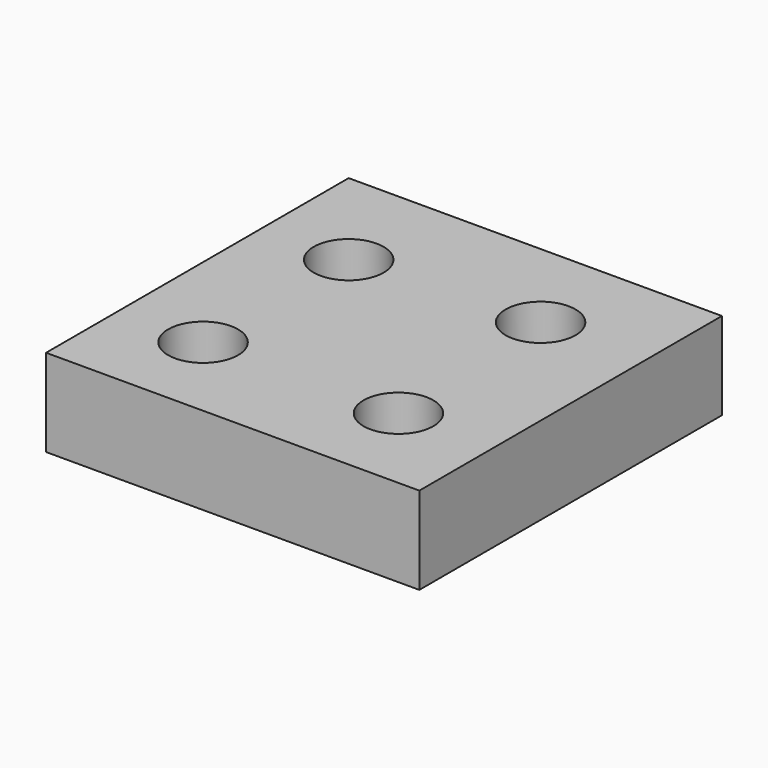
from build123d import *

# Parameters (mm, degrees)
F0_W     = 108.445853
F0_H     = 109.893702
F1_DEPTH = 12.7
F3_D     = 20.32


with BuildPart() as f1:
    # F0 (on Top) → F1 (new body, symmetric)
    with BuildSketch(Plane.XY):
        with Locations((0.514899, 4.793294)):
            Rectangle(F0_W, F0_H)
    extrude(amount=F1_DEPTH, both=True)

    # F3 (through all)
    with Locations(Plane.XY.offset(12.7)):
        with Locations((-28.653681, 28.426271), (-29.108502, -23.878068), (27.289219, -23.423249), (24.560295, 31.610012)):
            Hole(F3_D / 2)


solid = f1.part
